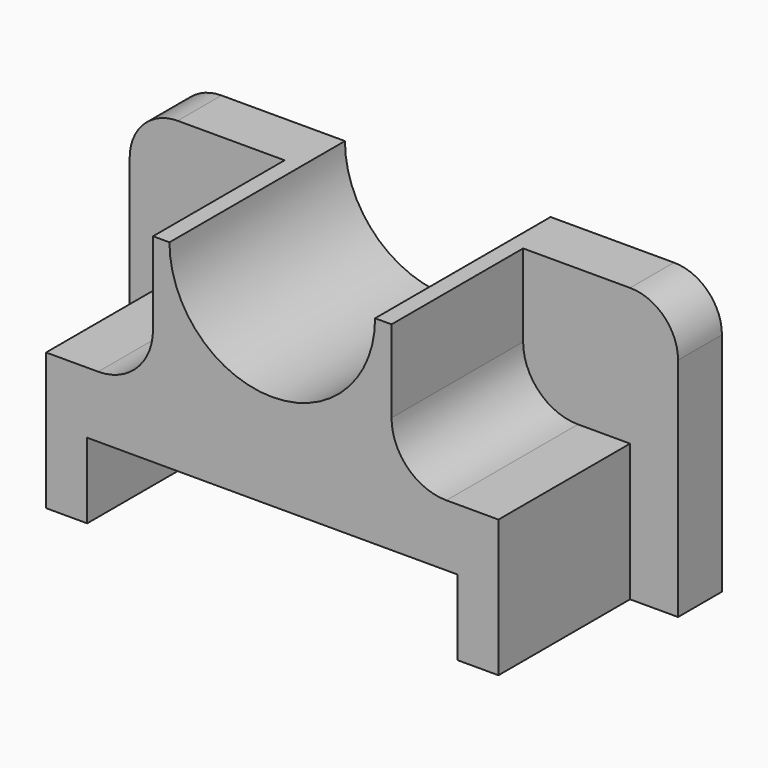
from build123d import *

# Parameters (mm, degrees)
F1_DEPTH = 20.32
F3_DEPTH = 20.321
F5_DEPTH = 15.24


with BuildPart() as f1:
    # F0 (on Front) → F1 (new body)
    with BuildSketch(Plane.XZ):
        with BuildLine():
            Line((-25.4, 8.255), (-25.4, -12.7))
            Line((-25.4, -12.7), (25.4, -12.7))
            Line((25.4, -12.7), (25.4, 8.255))
            ThreePointArc((25.4, 8.255), (24.09809, 11.39809), (20.955, 12.7))
            Line((20.955, 12.7), (-20.955, 12.7))
            ThreePointArc((-20.955, 12.7), (-24.09809, 11.39809), (-25.4, 8.255))
        make_face()
    extrude(amount=F1_DEPTH)

    # F2 (on face) → F3 (cut, through all)
    with BuildSketch(Plane.XZ.offset(20.32)):
        with BuildLine():
            Line((9.525, 12.7), (-9.525, 12.7))
            ThreePointArc((-9.525, 12.7), (0, 3.175), (9.525, 12.7))
        make_face()
    extrude(amount=-F3_DEPTH, mode=Mode.SUBTRACT)

    # F4 (on face) → F5 (cut)
    with BuildSketch(Plane.XZ.offset(20.32)):
        with BuildLine():
            Line((-11.049, 5.08), (-11.049, 12.7))
            Line((-11.049, 12.7), (-20.955, 12.7))
            ThreePointArc((-20.955, 12.7), (-24.09809, 11.39809), (-25.4, 8.255))
            Line((-25.4, 8.255), (-25.4, -12.7))
            Line((-25.4, -12.7), (-20.955, -12.7))
            Line((-20.955, -12.7), (-20.955, 0))
            Line((-20.955, 0), (-16.129, 0))
            ThreePointArc((-16.129, 0), (-12.536898, 1.487898), (-11.049, 5.08))
        make_face()
        Polygon((-17.145, -12.7), (17.145, -12.7), (17.145, -5.715), (0, -5.715), (-17.145, -5.715), align=None)
        with BuildLine():
            Line((20.955, 12.7), (11.049, 12.7))
            Line((11.049, 12.7), (11.049, 5.08))
            ThreePointArc((11.049, 5.08), (12.536898, 1.487898), (16.129, 0))
            Line((16.129, 0), (20.955, 0))
            Line((20.955, 0), (20.955, -12.7))
            Line((20.955, -12.7), (25.4, -12.7))
            Line((25.4, -12.7), (25.4, 8.255))
            ThreePointArc((25.4, 8.255), (24.09809, 11.39809), (20.955, 12.7))
        make_face()
    extrude(amount=-F5_DEPTH, mode=Mode.SUBTRACT)


solid = f1.part
